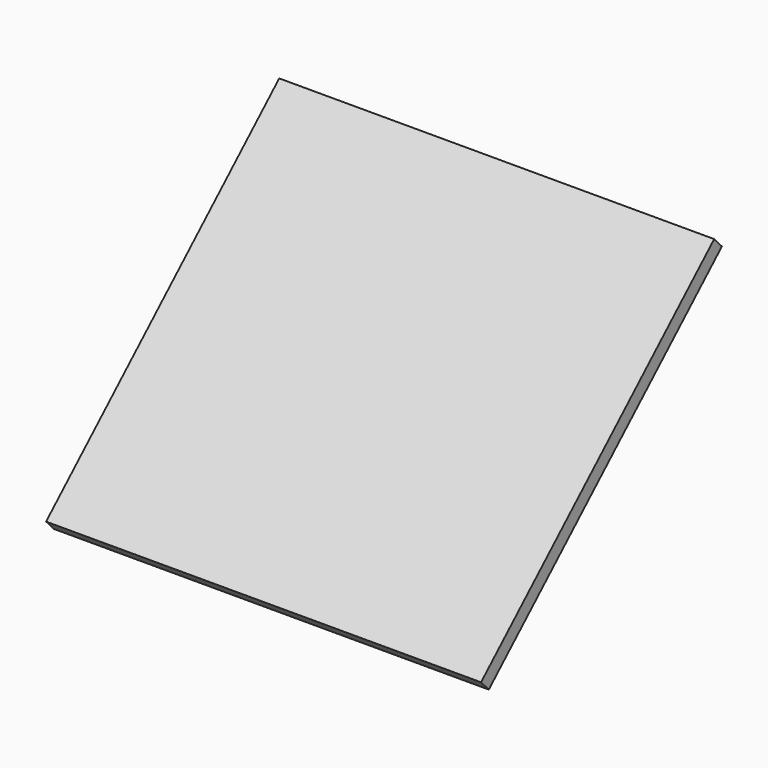
from build123d import *

# Parameters (mm, degrees)
F0_W     = 27.178
F0_H     = 762
F1_DEPTH = 831.85
F2_ANGLE = 47


with BuildPart() as f1:
    # F0 (on Right) → F1 (new body)
    with BuildSketch(Plane.YZ):
        with Locations((13.589, 332.1056081848)):
            Rectangle(F0_W, F0_H)
    extrude(amount=F1_DEPTH)


with BuildPart() as f1_1:
    # F2: moved
    add(f1.part.rotate(Axis((415.925, 0, -48.8943918152), (-1, 0, 0)), F2_ANGLE))


solid = f1_1.part
